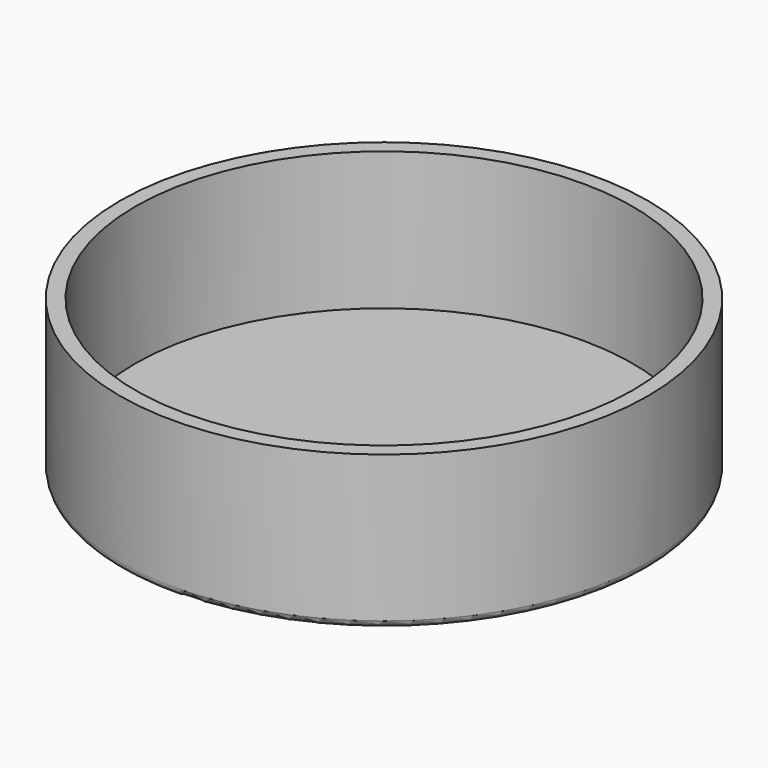
from build123d import *

# Parameters (mm, degrees)
F0_R     = 24.3
F1_DEPTH = 1.5
F0_R_2   = 25.8
F2_DEPTH = 15
F3_R     = 0.7


with BuildPart() as f1:
    # F0 (on Top) → F1 (new body)
    with BuildSketch(Plane.XY):
        Circle(F0_R)
    extrude(amount=F1_DEPTH)


with BuildPart() as f2:
    # F0 (on Top) → F2 (new body)
    with BuildSketch(Plane.XY):
        Circle(F0_R_2)
        Circle(F0_R, mode=Mode.SUBTRACT)
    extrude(amount=F2_DEPTH)

    # F3
    f3_edges = [f2.edges().sort_by_distance(p)[0] for p in [
        (-25.8, 0, 0),
    ]]
    fillet(f3_edges, radius=F3_R)


solid = Compound([f1.part, f2.part])
